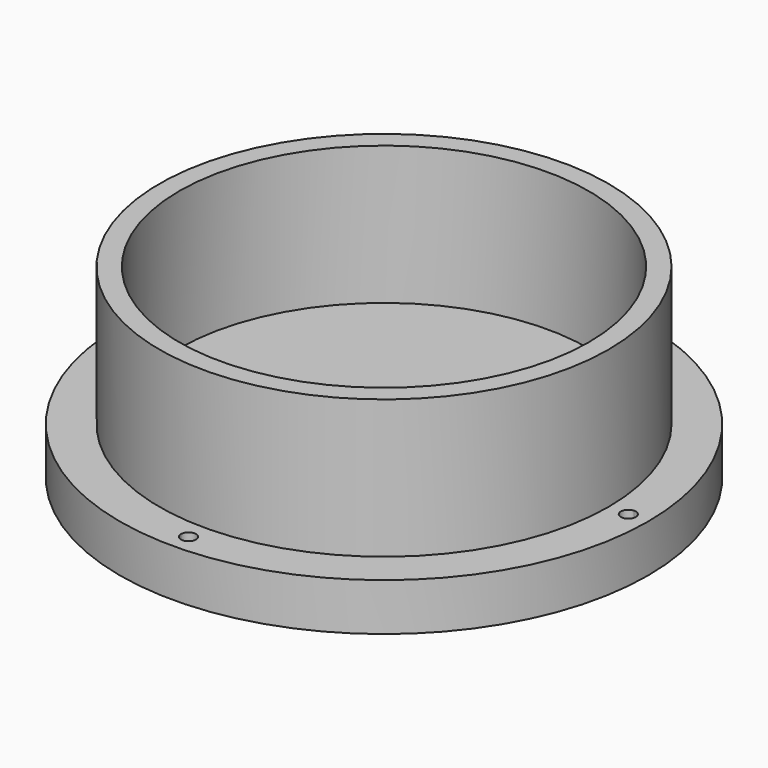
from build123d import *

# Parameters (mm, degrees)
F0_R     = 66.75
F1_DEPTH = 12
F2_R     = 56.75
F2_R_2   = 51.75
F3_DEPTH = 35
F6_DEPTH = 12
F7_R     = 5.5
F8_DEPTH = 12


with BuildPart() as f1:
    # F0 (on Top) → F1 (new body)
    with BuildSketch(Plane.XY):
        Circle(F0_R)
    extrude(amount=F1_DEPTH)

    # F2 (on face) → F3 (join)
    with BuildSketch(Plane.XY.offset(12)):
        Circle(F2_R)
        Circle(F2_R_2, mode=Mode.SUBTRACT)
    extrude(amount=F3_DEPTH)

    # F5 (on Top) → F6 (cut)
    with BuildSketch(Plane.XY):
        with BuildLine():
            ThreePointArc((-1.8982756668, 61.7208153664), (0, 59.8515), (1.8982756668, 61.7208153664))
            ThreePointArc((1.8982756668, 61.7208153664), (0, 61.75), (-1.8982756668, 61.7208153664))
        make_face()
        with BuildLine():
            ThreePointArc((-1.8982756668, 61.7208153664), (0, 61.75), (1.8982756668, 61.7208153664))
            ThreePointArc((1.8982756668, 61.7208153664), (1.8984439159, 61.7354072521), (1.8985, 61.75))
            ThreePointArc((1.8985, 61.75), (-0.0145927479, 63.6484439159), (-1.8982756668, 61.7208153664))
        make_face()
        with BuildLine():
            ThreePointArc((61.7208153664, 1.8982756668), (61.7427034105, 0.94925), (61.75, 0))
            ThreePointArc((61.75, 0), (61.7427034105, -0.94925), (61.7208153664, -1.8982756668))
            ThreePointArc((61.7208153664, -1.8982756668), (63.0820839356, -1.3527211976), (63.6485, 0))
            ThreePointArc((63.6485, 0), (63.0820839356, 1.3527211976), (61.7208153664, 1.8982756668))
        make_face()
        with BuildLine():
            ThreePointArc((61.7208153664, -1.8982756668), (61.7427034105, -0.94925), (61.75, 0))
            ThreePointArc((61.75, 0), (61.7427034105, 0.94925), (61.7208153664, 1.8982756668))
            ThreePointArc((61.7208153664, 1.8982756668), (59.8515, 0), (61.7208153664, -1.8982756668))
        make_face()
        with BuildLine():
            ThreePointArc((1.8985, -61.75), (1.8984439159, -61.7354072521), (1.8982756668, -61.7208153664))
            ThreePointArc((1.8982756668, -61.7208153664), (0, -61.75), (-1.8982756668, -61.7208153664))
            ThreePointArc((-1.8982756668, -61.7208153664), (-0.0145927479, -63.6484439159), (1.8985, -61.75))
        make_face()
        with BuildLine():
            ThreePointArc((-1.8982756668, -61.7208153664), (0, -61.75), (1.8982756668, -61.7208153664))
            ThreePointArc((1.8982756668, -61.7208153664), (0, -59.8515), (-1.8982756668, -61.7208153664))
        make_face()
        with BuildLine():
            ThreePointArc((-59.8515, 0), (-60.3972788024, 1.3320839356), (-61.7208153664, 1.8982756668))
            ThreePointArc((-61.7208153664, 1.8982756668), (-61.75, 0), (-61.7208153664, -1.8982756668))
            ThreePointArc((-61.7208153664, -1.8982756668), (-60.3972788024, -1.3320839356), (-59.8515, 0))
        make_face()
        with BuildLine():
            ThreePointArc((-61.7208153664, -1.8982756668), (-61.75, 0), (-61.7208153664, 1.8982756668))
            ThreePointArc((-61.7208153664, 1.8982756668), (-63.6485, 0), (-61.7208153664, -1.8982756668))
        make_face()
    extrude(amount=F6_DEPTH, mode=Mode.SUBTRACT)

    # F7 (on Top) → F8 (cut)
    with BuildSketch(Plane.XY):
        Circle(F7_R)
    extrude(amount=F8_DEPTH, mode=Mode.SUBTRACT)


solid = f1.part
